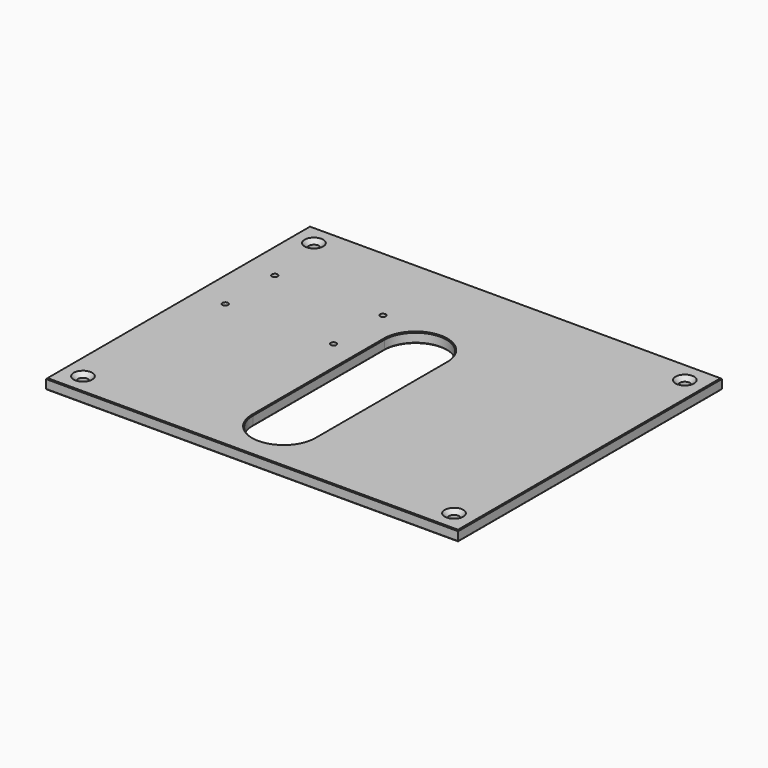
from build123d import *

# Parameters (mm, degrees)
F0_W     = 254
F0_H     = 203.2
F0_R     = 3.175
F0_R_2   = 1.778
F1_DEPTH = 6.35
F2_SIZE  = 0.508
F3_SIZE  = 2.54


with BuildPart() as f1:
    # F0 (on Top) → F1 (new body)
    with BuildSketch(Plane.XY):
        with Locations((14.533197, 0)):
            Rectangle(F0_W, F0_H)
        with Locations((-99.898785, -88.9)):
            Circle(F0_R, mode=Mode.SUBTRACT)
        with BuildLine():
            ThreePointArc((27.233197, -69.322012), (8.183197, -88.372012), (-10.866803, -69.322012))
            Line((-10.866803, -69.322012), (-10.866803, 32.277988))
            ThreePointArc((-10.866803, 32.277988), (8.183197, 51.327988), (27.233197, 32.277988))
            Line((27.233197, 32.277988), (27.233197, -69.322012))
        make_face(mode=Mode.SUBTRACT)
        with Locations((128.833197, -88.9)):
            Circle(F0_R, mode=Mode.SUBTRACT)
        with Locations((-93.416854, 12.7)):
            Circle(F0_R_2, mode=Mode.SUBTRACT)
        with Locations((-93.416854, 50.8)):
            Circle(F0_R_2, mode=Mode.SUBTRACT)
        with Locations((-26.741854, 12.7)):
            Circle(F0_R_2, mode=Mode.SUBTRACT)
        with Locations((-26.741854, 50.8)):
            Circle(F0_R_2, mode=Mode.SUBTRACT)
        with Locations((-99.766803, 88.9)):
            Circle(F0_R, mode=Mode.SUBTRACT)
        with Locations((128.833197, 88.9)):
            Circle(F0_R, mode=Mode.SUBTRACT)
    extrude(amount=F1_DEPTH)

    # F2
    f2_edges = [f1.edges().sort_by_distance(p)[0] for p in [
        (141.533197, 0, 6.35),
        (14.533197, -101.6, 6.35),
        (14.533197, 101.6, 6.35),
        (-112.466803, 0, 6.35),
        (-112.466803, 0, 0),
        (14.533197, -101.6, 0),
        (141.533197, 0, 0),
        (14.533197, 101.6, 0),
        (-10.866803, -18.522012, 0),
        (-10.866803, -18.522012, 6.35),
        (-103.073785, -88.9, 0),
        (125.658197, -88.9, 0),
        (125.658197, 88.9, 0),
        (-102.941803, 88.9, 0),
    ]]
    chamfer(f2_edges, length=F2_SIZE)

    # F3
    f3_edges = [f1.edges().sort_by_distance(p)[0] for p in [
        (-102.941803, 88.9, 6.35),
        (-103.073785, -88.9, 6.35),
        (125.658197, 88.9, 6.35),
        (125.658197, -88.9, 6.35),
        (-95.194854, 12.7, 0),
        (-28.519854, 12.7, 0),
        (-28.519854, 50.8, 0),
        (-95.194854, 50.8, 0),
    ]]
    chamfer(f3_edges, length=F3_SIZE)


solid = f1.part
